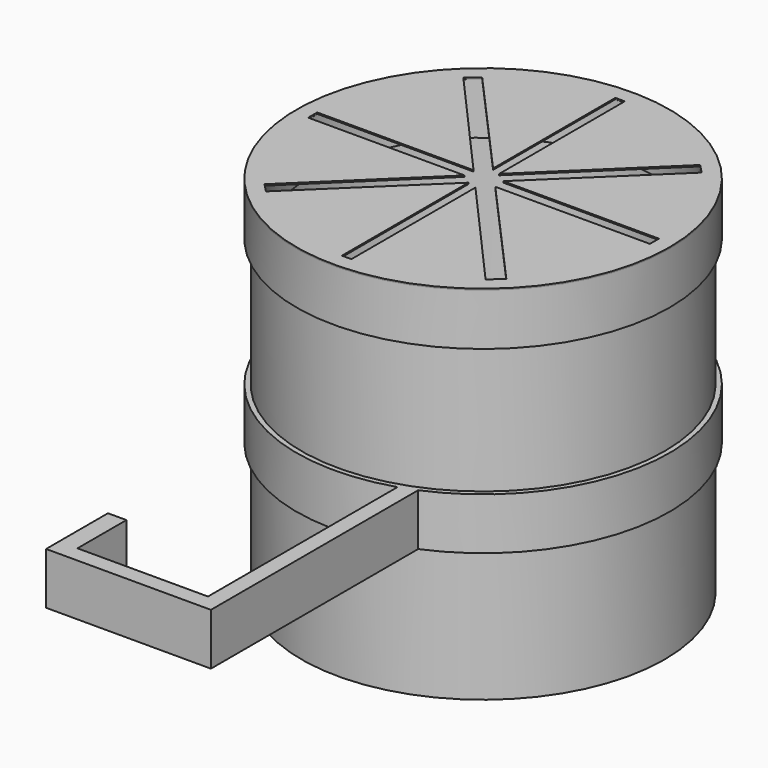
from build123d import *

# Parameters (mm, degrees)
F0_R      = 35.052
F0_R_2    = 33.909
F1_DEPTH  = 70.104
F2_R      = 35.052
F3_DEPTH  = 1.999996
F4_R      = 14.99997
F5_DEPTH  = 0.999998
F6_R      = 36.0000042
F6_R_2    = 32.9999975
F7_DEPTH  = 9.99998
F8_R      = 36.0000042
F9_DEPTH  = 0.9398
F11_R     = 35.052
F12_DEPTH = 10.0000054
F13_DEPTH = 10.0000054
F14_DEPTH = 0.254


with BuildPart() as f1:
    # F0 (on Top) → F1 (new body)
    with BuildSketch(Plane.XY):
        Circle(F0_R)
        Circle(F0_R_2, mode=Mode.SUBTRACT)
    extrude(amount=F1_DEPTH)

    # F2 (on Top) → F3 (join)
    with BuildSketch(Plane.XY):
        Circle(F2_R)
    extrude(amount=F3_DEPTH)

    # F4 (on face) → F5 (join)
    with BuildSketch(Plane.XY):
        Circle(F4_R)
    extrude(amount=-F5_DEPTH)

    # F8 (on face) → F9 (cut)
    with BuildSketch(Plane.XY.offset(70.104)):
        Circle(F8_R)
        Polygon((-0.8631545961, 3.4883117496), (-0.8631545961, 32.9887071457), (0.9636605694, 32.9887071457), (0.9636605694, 2.6763906699), (22.80452686, 23.8601211458), (24.5416078782, 22.0614894727), (2.938679691, 1.1978312537), (32.9853559722, 1.1978312537), (32.9853559722, -0.9829172856), (3.1389852868, -0.9829172856), (23.2346414068, -23.4339769074), (20.899284631, -25.5249813199), (0.9636605694, -3.0481130643), (0.9636605694, -32.9859241694), (-0.8631545961, -32.9859241694), (-0.8631545961, -2.4739011377), (-22.9023173451, -23.7588656131), (-24.5416078782, -22.0614894727), (-2.8091619684, -0.9829172856), (-32.9782509434, -0.9829172856), (-32.9782509434, 1.1978312537), (-2.8022354953, 1.1978312537), (-22.8459511004, 23.796569754), (-20.7260778787, 25.6793600147), align=None, mode=Mode.SUBTRACT)
    extrude(amount=F9_DEPTH, mode=Mode.SUBTRACT)

    # F11 (on offset) → F12 (join)
    with BuildSketch(Plane.XY.offset(25.4)):
        with BuildLine():
            ThreePointArc((13.9945056409, -33.1685711822), (29.998354657, -19.9022365646), (36.0000042, 0))
            ThreePointArc((36.0000042, 0), (-29.0635094887, 21.2441219776), (10.9270783141, -34.3015927023))
            Line((10.9270783141, -34.3015927023), (13.9945056409, -33.1685711822))
        make_face()
        Circle(F11_R, mode=Mode.SUBTRACT)
        with BuildLine():
            Line((13.9945056409, -33.1685711822), (10.9270783141, -34.3015927023))
            ThreePointArc((10.9270783141, -34.3015927023), (12.4736631007, -33.769927913), (13.9945056409, -33.1685711822))
        make_face()
        with BuildLine():
            ThreePointArc((13.9945056409, -33.1685711822), (12.4736631007, -33.769927913), (10.9270783141, -34.3015927023))
            Line((10.9270783141, -34.3015927023), (10.9270783141, -80.0483375344))
            Line((10.9270783141, -80.0483375344), (-14.2576834187, -80.0483375344))
            Line((-14.2576834187, -80.0483375344), (-14.2576834187, -68.2360119674))
            Line((-14.2576834187, -68.2360119674), (-17.8236663342, -68.2360119674))
            Line((-17.8236663342, -68.2360119674), (-17.8236663342, -83.1685727822))
            Line((-17.8236663342, -83.1685727822), (13.9945056409, -83.1685727822))
            Line((13.9945056409, -83.1685727822), (13.9945056409, -33.1685711822))
        make_face()
    extrude(amount=F12_DEPTH)

    # F11 (on offset) → F13 (join)
    with BuildSketch(Plane.XY.offset(25.4)):
        with BuildLine():
            ThreePointArc((13.9945056409, -33.1685711822), (29.998354657, -19.9022365646), (36.0000042, 0))
            ThreePointArc((36.0000042, 0), (-29.0635094887, 21.2441219776), (10.9270783141, -34.3015927023))
            Line((10.9270783141, -34.3015927023), (13.9945056409, -33.1685711822))
        make_face()
        Circle(F11_R, mode=Mode.SUBTRACT)
        with BuildLine():
            Line((13.9945056409, -33.1685711822), (10.9270783141, -34.3015927023))
            ThreePointArc((10.9270783141, -34.3015927023), (12.4736631007, -33.769927913), (13.9945056409, -33.1685711822))
        make_face()
        with BuildLine():
            ThreePointArc((13.9945056409, -33.1685711822), (12.4736631007, -33.769927913), (10.9270783141, -34.3015927023))
            Line((10.9270783141, -34.3015927023), (10.9270783141, -80.0483375344))
            Line((10.9270783141, -80.0483375344), (-14.2576834187, -80.0483375344))
            Line((-14.2576834187, -80.0483375344), (-14.2576834187, -68.2360119674))
            Line((-14.2576834187, -68.2360119674), (-17.8236663342, -68.2360119674))
            Line((-17.8236663342, -68.2360119674), (-17.8236663342, -83.1685727822))
            Line((-17.8236663342, -83.1685727822), (13.9945056409, -83.1685727822))
            Line((13.9945056409, -83.1685727822), (13.9945056409, -33.1685711822))
        make_face()
    extrude(amount=F13_DEPTH)


with BuildPart() as f7:
    # F6 (on face) → F7 (new body)
    with BuildSketch(Plane.XY.offset(70.104)):
        Circle(F6_R)
        Circle(F6_R_2, mode=Mode.SUBTRACT)
    extrude(amount=-F7_DEPTH)


with BuildPart() as f14:
    # F8 (on face) → F14 (new body)
    with BuildSketch(Plane.XY.offset(70.104)):
        Circle(F8_R)
        Polygon((-0.8631545961, 3.4883117496), (-0.8631545961, 32.9887071457), (0.9636605694, 32.9887071457), (0.9636605694, 2.6763906699), (22.80452686, 23.8601211458), (24.5416078782, 22.0614894727), (2.938679691, 1.1978312537), (32.9853559722, 1.1978312537), (32.9853559722, -0.9829172856), (3.1389852868, -0.9829172856), (23.2346414068, -23.4339769074), (20.899284631, -25.5249813199), (0.9636605694, -3.0481130643), (0.9636605694, -32.9859241694), (-0.8631545961, -32.9859241694), (-0.8631545961, -2.4739011377), (-22.9023173451, -23.7588656131), (-24.5416078782, -22.0614894727), (-2.8091619684, -0.9829172856), (-32.9782509434, -0.9829172856), (-32.9782509434, 1.1978312537), (-2.8022354953, 1.1978312537), (-22.8459511004, 23.796569754), (-20.7260778787, 25.6793600147), align=None, mode=Mode.SUBTRACT)
    extrude(amount=F14_DEPTH)


solid = Compound([f1.part, f7.part, f14.part])
